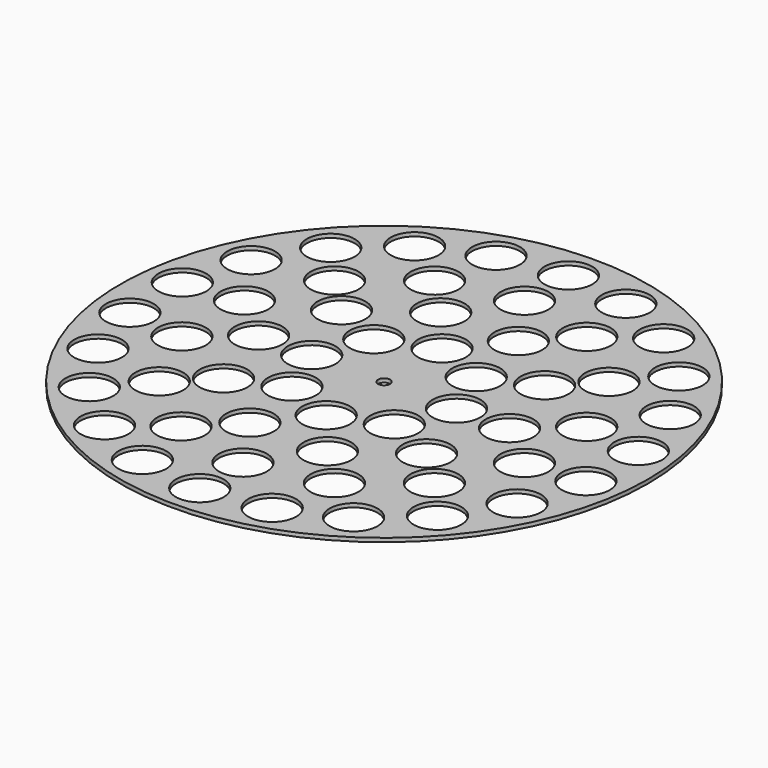
from build123d import *

# Parameters (mm, degrees)
F0_R     = 105
F0_R_2   = 9.525
F0_R_3   = 2.38125
F1_DEPTH = 1.51892


with BuildPart() as f1:
    # F0 (on Top) → F1 (new body)
    with BuildSketch(Plane.XY):
        Circle(F0_R)
        with Locations((-69.270038, -59.997693)):
            Circle(F0_R_2, mode=Mode.SUBTRACT)
        with Locations((-25.817276, -87.929117)):
            Circle(F0_R_2, mode=Mode.SUBTRACT)
        with Locations((-49.561652, -77.082449)):
            Circle(F0_R_2, mode=Mode.SUBTRACT)
        with Locations((-30.518334, -62.830357)):
            Circle(F0_R_2, mode=Mode.SUBTRACT)
        with Locations((-0.274165, -69.849462)):
            Circle(F0_R_2, mode=Mode.SUBTRACT)
        with Locations((-83.367003, -38.05265)):
            Circle(F0_R_2, mode=Mode.SUBTRACT)
        with Locations((-54.732814, -43.397483)):
            Circle(F0_R_2, mode=Mode.SUBTRACT)
        with Locations((-90.710582, -13.025041)):
            Circle(F0_R_2, mode=Mode.SUBTRACT)
        with Locations((-68.133405, -15.39031)):
            Circle(F0_R_2, mode=Mode.SUBTRACT)
        with Locations((-40.369083, -29.350384)):
            Circle(F0_R_2, mode=Mode.SUBTRACT)
        with Locations((-15.4115, -47.472029)):
            Circle(F0_R_2, mode=Mode.SUBTRACT)
        with Locations((-49.910996, -0.02076)):
            Circle(F0_R_2, mode=Mode.SUBTRACT)
        with Locations((-20.364587, -20.364587)):
            Circle(F0_R_2, mode=Mode.SUBTRACT)
        with Locations((0, -91.640937)):
            Circle(F0_R_2, mode=Mode.SUBTRACT)
        with Locations((25.817276, -87.929117)):
            Circle(F0_R_2, mode=Mode.SUBTRACT)
        with Locations((49.543149, -77.094343)):
            Circle(F0_R_2, mode=Mode.SUBTRACT)
        with Locations((30.518334, -62.830357)):
            Circle(F0_R_2, mode=Mode.SUBTRACT)
        with Locations((69.255635, -60.014318)):
            Circle(F0_R_2, mode=Mode.SUBTRACT)
        with Locations((15.431245, -47.465615)):
            Circle(F0_R_2, mode=Mode.SUBTRACT)
        with Locations((0, -28.799874)):
            Circle(F0_R_2, mode=Mode.SUBTRACT)
        with Locations((40.381288, -29.333591)):
            Circle(F0_R_2, mode=Mode.SUBTRACT)
        with Locations((20.364587, -20.364587)):
            Circle(F0_R_2, mode=Mode.SUBTRACT)
        with Locations((54.732814, -43.397483)):
            Circle(F0_R_2, mode=Mode.SUBTRACT)
        with Locations((83.357867, -38.072659)):
            Circle(F0_R_2, mode=Mode.SUBTRACT)
        with Locations((68.133405, -15.39031)):
            Circle(F0_R_2, mode=Mode.SUBTRACT)
        with Locations((90.707453, -13.046813)):
            Circle(F0_R_2, mode=Mode.SUBTRACT)
        with Locations((-90.705887, 13.057699)):
            Circle(F0_R_2, mode=Mode.SUBTRACT)
        with Locations((-68.072472, 15.657619)):
            Circle(F0_R_2, mode=Mode.SUBTRACT)
        with Locations((-83.353297, 38.082663)):
            Circle(F0_R_2, mode=Mode.SUBTRACT)
        with Locations((-54.562055, 43.611979)):
            Circle(F0_R_2, mode=Mode.SUBTRACT)
        with Locations((-28.799874, 0)):
            Circle(F0_R_2, mode=Mode.SUBTRACT)
        with Locations((-20.364587, 20.364587)):
            Circle(F0_R_2, mode=Mode.SUBTRACT)
        with Locations((-40.393485, 29.316792)):
            Circle(F0_R_2, mode=Mode.SUBTRACT)
        with Locations((-15.450986, 47.459192)):
            Circle(F0_R_2, mode=Mode.SUBTRACT)
        with Locations((-69.248432, 60.022629)):
            Circle(F0_R_2, mode=Mode.SUBTRACT)
        with Locations((-30.271487, 62.949659)):
            Circle(F0_R_2, mode=Mode.SUBTRACT)
        with Locations((-49.533896, 77.100289)):
            Circle(F0_R_2, mode=Mode.SUBTRACT)
        with Locations((-25.806723, 87.932215)):
            Circle(F0_R_2, mode=Mode.SUBTRACT)
        Circle(F0_R_3, mode=Mode.SUBTRACT)
        with Locations((20.364587, 20.364587)):
            Circle(F0_R_2, mode=Mode.SUBTRACT)
        with Locations((28.799874, 0)):
            Circle(F0_R_2, mode=Mode.SUBTRACT)
        with Locations((49.911, 0)):
            Circle(F0_R_2, mode=Mode.SUBTRACT)
        with Locations((0, 28.799874)):
            Circle(F0_R_2, mode=Mode.SUBTRACT)
        with Locations((15.431245, 47.465615)):
            Circle(F0_R_2, mode=Mode.SUBTRACT)
        with Locations((40.381288, 29.333591)):
            Circle(F0_R_2, mode=Mode.SUBTRACT)
        with Locations((68.072472, 15.657619)):
            Circle(F0_R_2, mode=Mode.SUBTRACT)
        with Locations((90.709018, 13.035927)):
            Circle(F0_R_2, mode=Mode.SUBTRACT)
        with Locations((54.562055, 43.611979)):
            Circle(F0_R_2, mode=Mode.SUBTRACT)
        with Locations((83.362436, 38.062655)):
            Circle(F0_R_2, mode=Mode.SUBTRACT)
        with Locations((0, 69.85)):
            Circle(F0_R_2, mode=Mode.SUBTRACT)
        with Locations((30.271487, 62.949659)):
            Circle(F0_R_2, mode=Mode.SUBTRACT)
        with Locations((49.552401, 77.088397)):
            Circle(F0_R_2, mode=Mode.SUBTRACT)
        with Locations((0.010998, 91.640937)):
            Circle(F0_R_2, mode=Mode.SUBTRACT)
        with Locations((25.827829, 87.926018)):
            Circle(F0_R_2, mode=Mode.SUBTRACT)
        with Locations((69.262837, 60.006006)):
            Circle(F0_R_2, mode=Mode.SUBTRACT)
    extrude(amount=F1_DEPTH)


solid = f1.part
